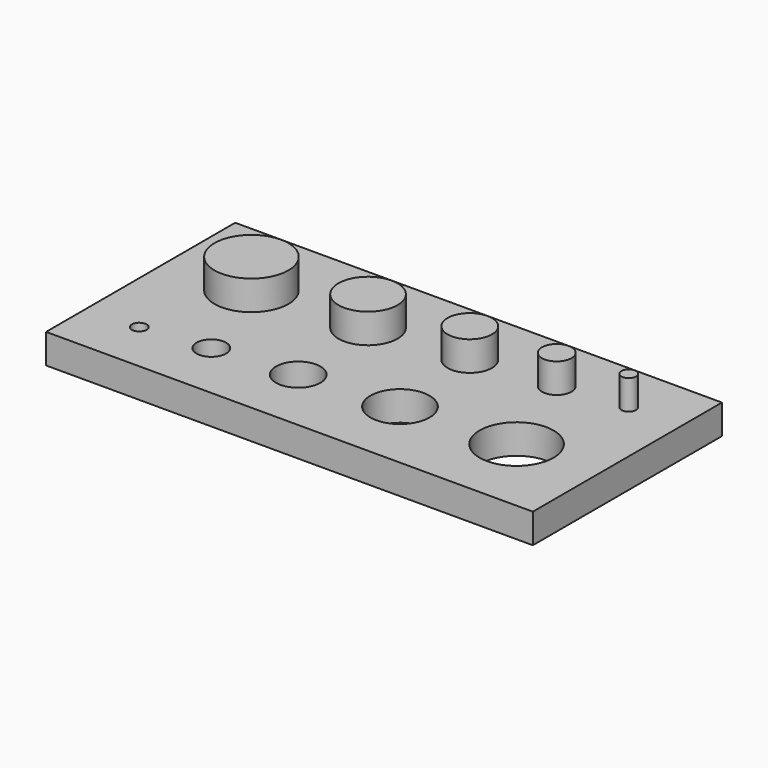
from build123d import *

# Parameters (mm, degrees)
F0_W     = 32.913417
F0_H     = 15.983271
F0_R     = 0.5
F0_R_2   = 1
F0_R_3   = 1.5
F0_R_4   = 2
F0_R_5   = 2.5
F1_DEPTH = 2
F2_R     = 0.5
F2_R_2   = 1
F2_R_3   = 1.5
F2_R_4   = 2
F2_R_5   = 2.5
F3_DEPTH = 2


with BuildPart() as f1:
    # F0 (on Top) → F1 (new body)
    with BuildSketch(Plane.XY):
        with Locations((16.456708, 7.991635)):
            Rectangle(F0_W, F0_H)
        with Locations((3.5, 3.5)):
            Circle(F0_R, mode=Mode.SUBTRACT)
        with Locations((7.972136, 4)):
            Circle(F0_R_2, mode=Mode.SUBTRACT)
        with Locations((13.449362, 4.5)):
            Circle(F0_R_3, mode=Mode.SUBTRACT)
        with Locations((19.930102, 5)):
            Circle(F0_R_4, mode=Mode.SUBTRACT)
        with Locations((27.413417, 5.5)):
            Circle(F0_R_5, mode=Mode.SUBTRACT)
        with Locations((5.5, 10.483271)):
            Circle(F0_R_5, mode=Mode.SUBTRACT)
        with Locations((12.983315, 10.983271)):
            Circle(F0_R_4, mode=Mode.SUBTRACT)
        with Locations((19.464055, 11.483271)):
            Circle(F0_R_3, mode=Mode.SUBTRACT)
        with Locations((24.941281, 11.983271)):
            Circle(F0_R_2, mode=Mode.SUBTRACT)
        with Locations((29.413417, 12.483271)):
            Circle(F0_R, mode=Mode.SUBTRACT)
        with Locations((5.5, 10.483271)):
            Circle(F0_R_5)
        with Locations((12.983315, 10.983271)):
            Circle(F0_R_4)
        with Locations((19.464055, 11.483271)):
            Circle(F0_R_3)
        with Locations((24.941281, 11.983271)):
            Circle(F0_R_2)
        with Locations((29.413417, 12.483271)):
            Circle(F0_R)
    extrude(amount=F1_DEPTH)

    # F2 (on face) → F3 (join)
    with BuildSketch(Plane.XY.offset(2)):
        with Locations((29.413417, 12.483271)):
            Circle(F2_R)
        with Locations((24.941281, 11.983271)):
            Circle(F2_R_2)
        with Locations((19.464055, 11.483271)):
            Circle(F2_R_3)
        with Locations((12.983315, 10.983271)):
            Circle(F2_R_4)
        with Locations((5.5, 10.483271)):
            Circle(F2_R_5)
    extrude(amount=F3_DEPTH)


solid = f1.part
